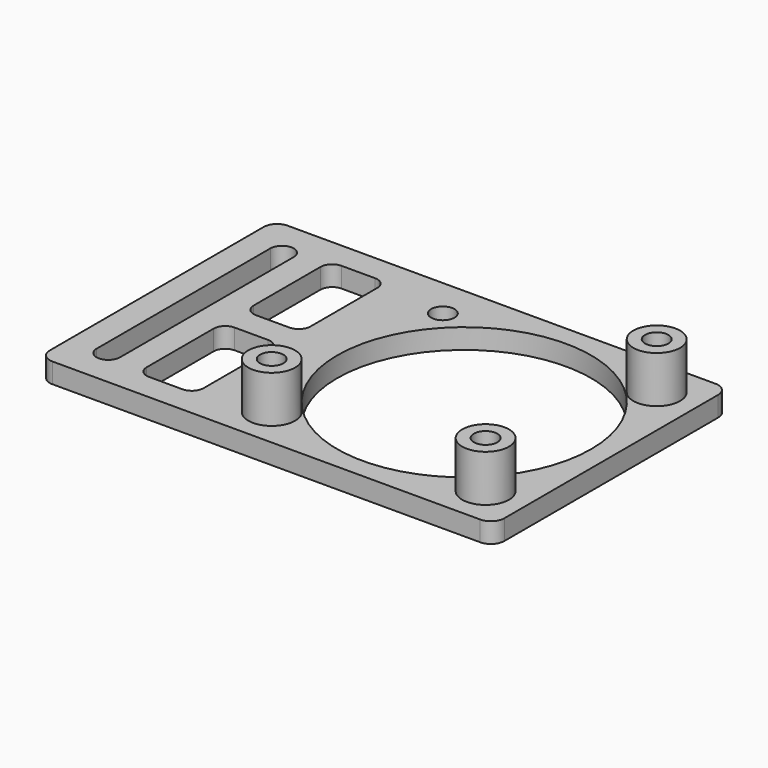
from build123d import *

# Parameters (mm, degrees)
F0_W     = 44
F0_H     = 44
F0_R     = 3.5
F0_R_2   = 1.75
F0_R_3   = 19
F0_W_2   = 8.5
F0_H_2   = 16
F1_DEPTH = 3
F2_DEPTH = 10
F3_R     = 1.75
F4_R     = 2


with BuildPart() as f1:
    # F0 (on Top) → F1 (new body)
    with BuildSketch(Plane.XY):
        Rectangle(F0_W, F0_H)
        with Locations((-16, -16)):
            Circle(F0_R, mode=Mode.SUBTRACT)
        with Locations((16, -16)):
            Circle(F0_R, mode=Mode.SUBTRACT)
        with Locations((-16, 16)):
            Circle(F0_R_2, mode=Mode.SUBTRACT)
        Circle(F0_R_3, mode=Mode.SUBTRACT)
        with Locations((16, 16)):
            Circle(F0_R, mode=Mode.SUBTRACT)
        Polygon((-22, -22), (-22, 22), (-42, 22), (-46, 22), (-46, -22), align=None)
        with Locations((-30.25, -10)):
            Rectangle(F0_W_2, F0_H_2, mode=Mode.SUBTRACT)
        with BuildLine():
            ThreePointArc((-42, 16.25), (-40.25, 18), (-38.5, 16.25))
            Line((-38.5, 16.25), (-38.5, -16.25))
            ThreePointArc((-38.5, -16.25), (-40.25, -18), (-42, -16.25))
            Line((-42, -16.25), (-42, 16.25))
        make_face(mode=Mode.SUBTRACT)
        with Locations((-30.25, 10)):
            Rectangle(F0_W_2, F0_H_2, mode=Mode.SUBTRACT)
    extrude(amount=F1_DEPTH)

    # F0 (on Top) → F2 (join)
    with BuildSketch(Plane.XY):
        with Locations((16, 16)):
            Circle(F0_R)
        with Locations((16, 16)):
            Circle(F0_R_2, mode=Mode.SUBTRACT)
        with Locations((16, -16)):
            Circle(F0_R)
        with Locations((16, -16)):
            Circle(F0_R_2, mode=Mode.SUBTRACT)
        with Locations((-16, -16)):
            Circle(F0_R)
        with Locations((-16, -16)):
            Circle(F0_R_2, mode=Mode.SUBTRACT)
    extrude(amount=F2_DEPTH)

    # F3
    f3_edges = [f1.edges().sort_by_distance(p)[0] for p in [
        (-34.5, 18, 1.5),
        (-26, 18, 1.5),
        (-34.5, 2, 1.5),
        (-26, 2, 1.5),
        (-34.5, -18, 1.5),
        (-26, -18, 1.5),
        (-34.5, -2, 1.5),
        (-26, -2, 1.5),
    ]]
    fillet(f3_edges, radius=F3_R)

    # F4
    f4_edges = [f1.edges().sort_by_distance(p)[0] for p in [
        (-46, 22, 1.5),
        (-46, -22, 1.5),
        (22, -22, 1.5),
        (22, 22, 1.5),
    ]]
    fillet(f4_edges, radius=F4_R)


solid = f1.part
